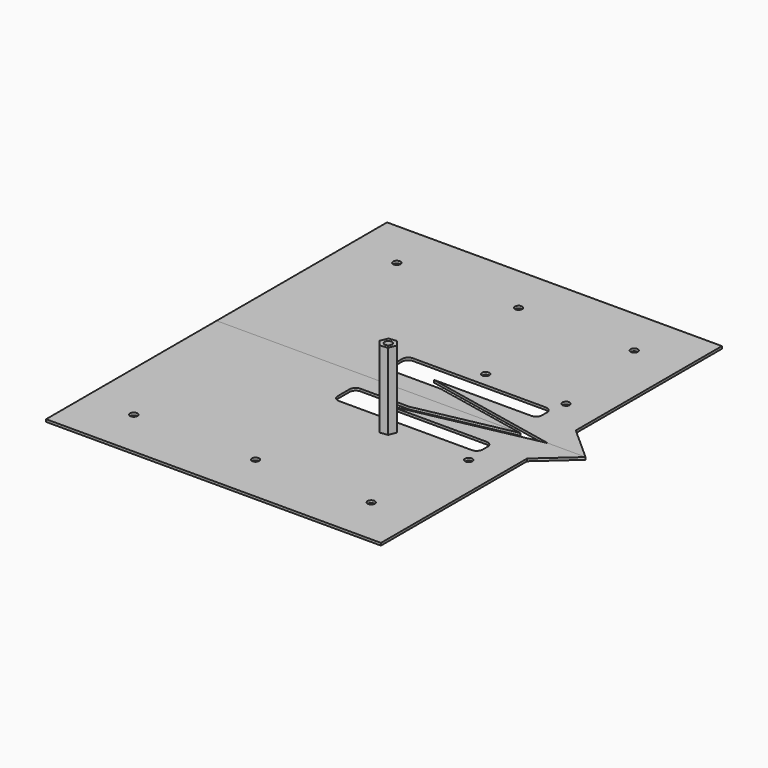
from build123d import *

# Parameters (mm, degrees)
F0_R     = 3
F1_DEPTH = 2
F2_DEPTH = 2
F3_DEPTH = 65


with BuildPart() as f1:
    # F0 (on Top) → F1 (new body)
    with BuildSketch(Plane.XY):
        with BuildLine():
            Line((-275, 0), (0, 0))
            Line((0, 0), (0, 150))
            Line((0, 150), (0, 173))
            Line((0, 173), (0, 175))
            Line((0, 175), (-3, 175))
            Line((-3, 175), (-115, 152))
            Line((-115, 152), (-35, 152))
            ThreePointArc((-35, 152), (-31.464466, 150.535534), (-30, 147))
            Line((-30, 147), (-30, 142))
            ThreePointArc((-30, 142), (-31.464466, 138.464466), (-35, 137))
            Line((-35, 137), (-144, 137))
            ThreePointArc((-144, 137), (-147.535534, 138.464466), (-149, 142))
            Line((-149, 142), (-149, 154))
            ThreePointArc((-149, 154), (-147.535534, 157.535534), (-144, 159))
            Line((-144, 159), (-104, 159))
            Line((-104, 159), (-25.357488, 175))
            Line((-25.357488, 175), (-275, 175))
            Line((-275, 175), (-275, 0))
        make_face()
        with Locations((-235, 40)):
            Circle(F0_R, mode=Mode.SUBTRACT)
        with Locations((-135, 40)):
            Circle(F0_R, mode=Mode.SUBTRACT)
        with Locations((-40, 40)):
            Circle(F0_R, mode=Mode.SUBTRACT)
        Polygon((-97.918868, 130.097376), (-91.544977, 130.942527), (-87.626109, 125.845151), (-90.081132, 119.902624), (-96.455023, 119.057473), (-100.373891, 124.154849), align=None, mode=Mode.SUBTRACT)
        with Locations((-28, 125)):
            Circle(F0_R, mode=Mode.SUBTRACT)
        Polygon((0, 173), (0, 150), (28, 175), (0, 175), align=None)
        Polygon((-87.626109, 125.845151), (-91.544977, 130.942527), (-97.918868, 130.097376), (-100.373891, 124.154849), (-96.455023, 119.057473), (-90.081132, 119.902624), align=None)
        with Locations((-94, 125)):
            Circle(F0_R, mode=Mode.SUBTRACT)
    extrude(amount=F1_DEPTH)


with BuildPart() as f2:
    # F0 (on Top) → F2 (new body)
    with BuildSketch(Plane.XY):
        with BuildLine():
            Line((-275, 350), (-275, 175))
            Line((-275, 175), (-25.357488, 175))
            Line((-25.357488, 175), (-104, 191))
            Line((-104, 191), (-144, 191))
            ThreePointArc((-144, 191), (-147.535534, 192.464466), (-149, 196))
            Line((-149, 196), (-149, 208))
            ThreePointArc((-149, 208), (-147.535534, 211.535534), (-144, 213))
            Line((-144, 213), (-35, 213))
            ThreePointArc((-35, 213), (-31.464466, 211.535534), (-30, 208))
            Line((-30, 208), (-30, 203))
            ThreePointArc((-30, 203), (-31.464466, 199.464466), (-35, 198))
            Line((-35, 198), (-115, 198))
            Line((-115, 198), (-3, 175))
            Line((-3, 175), (0, 175))
            Line((0, 175), (0, 177))
            Line((0, 177), (0, 200))
            Line((0, 200), (0, 350))
            Line((0, 350), (-275, 350))
        make_face()
        with Locations((-235, 310)):
            Circle(F0_R, mode=Mode.SUBTRACT)
        with Locations((-135, 310)):
            Circle(F0_R, mode=Mode.SUBTRACT)
        with Locations((-94, 225)):
            Circle(F0_R, mode=Mode.SUBTRACT)
        with Locations((-28, 225)):
            Circle(F0_R, mode=Mode.SUBTRACT)
        with Locations((-40, 310)):
            Circle(F0_R, mode=Mode.SUBTRACT)
        Polygon((0, 175), (28, 175), (0, 200), (0, 177), align=None)
    extrude(amount=F2_DEPTH)


with BuildPart() as f3:
    # F0 (on Top) → F3 (new body)
    with BuildSketch(Plane.XY):
        Polygon((-87.626109, 125.845151), (-91.544977, 130.942527), (-97.918868, 130.097376), (-100.373891, 124.154849), (-96.455023, 119.057473), (-90.081132, 119.902624), align=None)
        with Locations((-94, 125)):
            Circle(F0_R, mode=Mode.SUBTRACT)
    extrude(amount=F3_DEPTH)


solid = Compound([f1.part, f2.part, f3.part])
